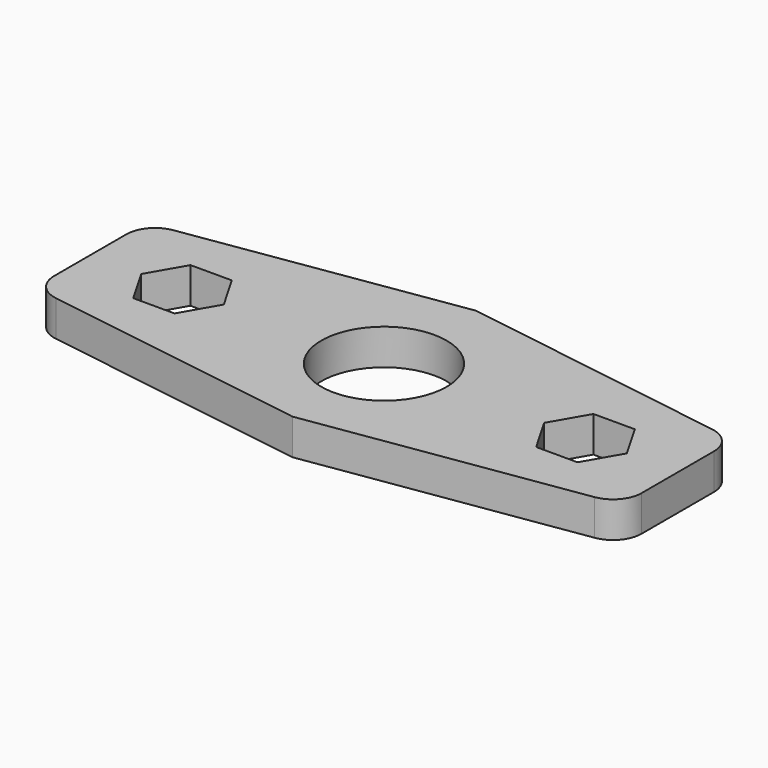
from build123d import *

# Parameters (mm, degrees)
F0_R     = 11.1125
F1_DEPTH = 6.35
F2_R     = 5.08


with BuildPart() as f1:
    # F0 (on Top) → F1 (new body)
    with BuildSketch(Plane.XY):
        Polygon((0, 20.377491), (-52.117791, 12.378575), (-52.117791, -12.3698), (0, -20.314518), (52.121006, -12.3698), (52.121006, 12.3698), align=None)
        Polygon((-43.073526, 0), (-39.407352, 6.35), (-32.075003, 6.35), (-28.408829, 0), (-32.075003, -6.35), (-39.407352, -6.35), align=None, mode=Mode.SUBTRACT)
        Circle(F0_R, mode=Mode.SUBTRACT)
        Polygon((28.41391, 0), (32.080084, 6.35), (39.412432, 6.35), (43.078606, 0), (39.412432, -6.35), (32.080084, -6.35), align=None, mode=Mode.SUBTRACT)
    extrude(amount=F1_DEPTH)

    # F2
    f2_edges = [f1.edges().sort_by_distance(p)[0] for p in [
        (52.121006, 12.3698, 3.175),
        (52.121006, -12.3698, 3.175),
        (-52.117791, -12.3698, 3.175),
        (-52.117791, 12.378575, 3.175),
    ]]
    fillet(f2_edges, radius=F2_R)


solid = f1.part
